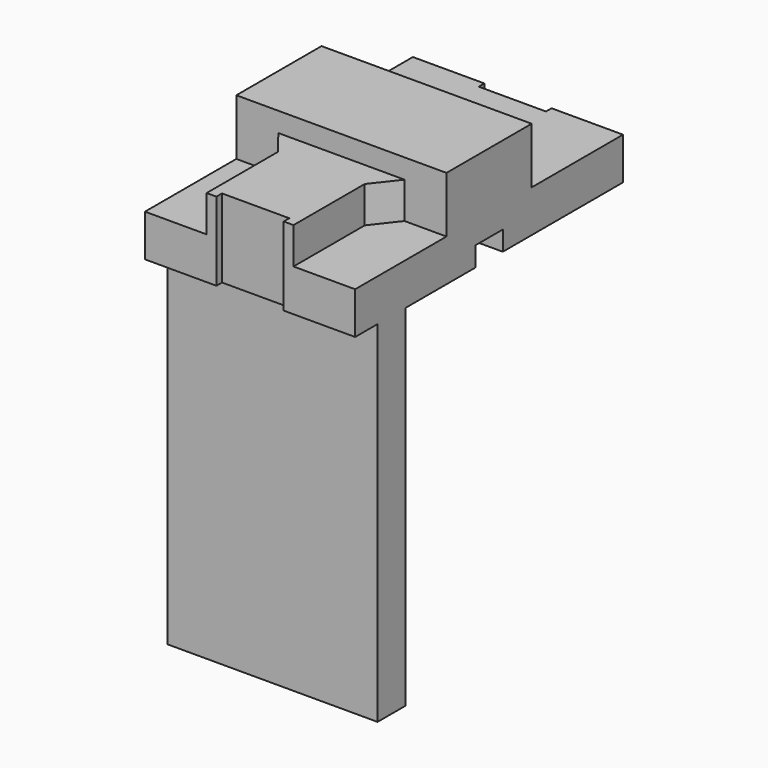
from build123d import *

# Parameters (mm, degrees)
SKETCH_W        = 15
SKETCH_H        = 23.9
PAD_DEPTH       = 3
SKETCH001_W     = 15
SKETCH001_H     = 7.6
PAD001_DEPTH    = 4
PAD002_DEPTH    = 2.6
SKETCH003_W     = 4.8
SKETCH003_H     = 0.5
POCKET_DEPTH    = 20
SKETCH004_W     = 2.45
SKETCH004_H     = 1.4
POCKET001_DEPTH = 20
SKETCH005_W     = 15
SKETCH005_H     = 2.5
PAD003_DEPTH    = 25


with BuildPart() as part:
    # Sketch → Pad (new body)
    with BuildSketch(Plane.XY):
        Rectangle(SKETCH_W, SKETCH_H)
    extrude(amount=PAD_DEPTH)

    # Sketch001 → Pad001 (new body)
    with BuildSketch(Plane.XY.offset(3)):
        Rectangle(SKETCH001_W, SKETCH001_H)
    extrude(amount=PAD001_DEPTH)

    # Sketch002 → Pad002 (new body)
    with BuildSketch(Plane.XY.offset(3)):
        Polygon((-3.1, -11.95), (3.1, -11.95), (3.1, -5.6), (4.5, -3.8), (-4.5, -3.8), (-3.1, -5.6), align=None)
    extrude(amount=PAD002_DEPTH)

    # Sketch003 → Pocket (cut)
    with BuildSketch(Plane(origin=(0, 0, 0), x_dir=(1, 0, 0), z_dir=(0, 0, -1))):
        with Locations((0, 11.7)):
            Rectangle(SKETCH003_W, SKETCH003_H)
        with Locations((0, -11.7)):
            Rectangle(SKETCH003_W, SKETCH003_H)
    extrude(amount=-POCKET_DEPTH, mode=Mode.SUBTRACT)

    # Sketch004 → Pocket001 (cut)
    with BuildSketch(Plane.YZ.offset(7.5)):
        with Locations((0, 0.7)):
            Rectangle(SKETCH004_W, SKETCH004_H)
    extrude(amount=-POCKET001_DEPTH, mode=Mode.SUBTRACT)

    # Sketch005 → Pad003 (new body)
    with BuildSketch(Plane(origin=(0, 0, 0), x_dir=(1, 0, 0), z_dir=(0, 0, -1))):
        with Locations((0, 8.7)):
            Rectangle(SKETCH005_W, SKETCH005_H)
    extrude(amount=PAD003_DEPTH)


solid = part.part
